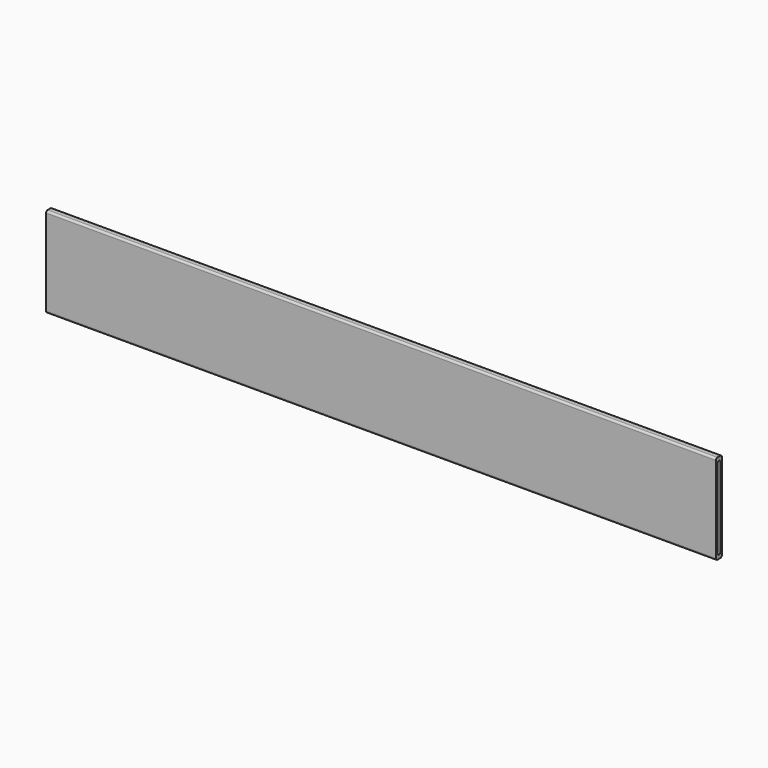
from build123d import *

# Parameters (mm, degrees)
F0_W     = 1785
F0_H     = 240
F1_DEPTH = 20
F3_DEPTH = 11
F5_DEPTH = 11
F6_R     = 5


with BuildPart() as f1:
    # F0 (on Front) → F1 (new body)
    with BuildSketch(Plane.XZ):
        Rectangle(F0_W, F0_H)
    extrude(amount=F1_DEPTH)

    # F2 (on face) → F3 (cut)
    with BuildSketch(Plane(origin=(-892.5, 0, 0), x_dir=(0, -1, 0), z_dir=(-1, 0, 0))):
        with BuildLine():
            Line((5, 105), (5, -105))
            ThreePointArc((5, -105), (10, -110), (15, -105))
            Line((15, -105), (15, 105))
            ThreePointArc((15, 105), (10, 110), (5, 105))
        make_face()
    extrude(amount=-F3_DEPTH, mode=Mode.SUBTRACT)

    # F4 (on face) → F5 (cut)
    with BuildSketch(Plane.YZ.offset(892.5)):
        with BuildLine():
            Line((-5, -105), (-5, 105))
            ThreePointArc((-5, 105), (-10, 110), (-15, 105))
            Line((-15, 105), (-15, -105))
            ThreePointArc((-15, -105), (-10, -110), (-5, -105))
        make_face()
    extrude(amount=-F5_DEPTH, mode=Mode.SUBTRACT)

    # F6
    f6_edges = [f1.edges().sort_by_distance(p)[0] for p in [
        (0, 0, 120),
        (0, -20, 120),
        (0, 0, -120),
        (0, -20, -120),
    ]]
    fillet(f6_edges, radius=F6_R)


solid = f1.part
